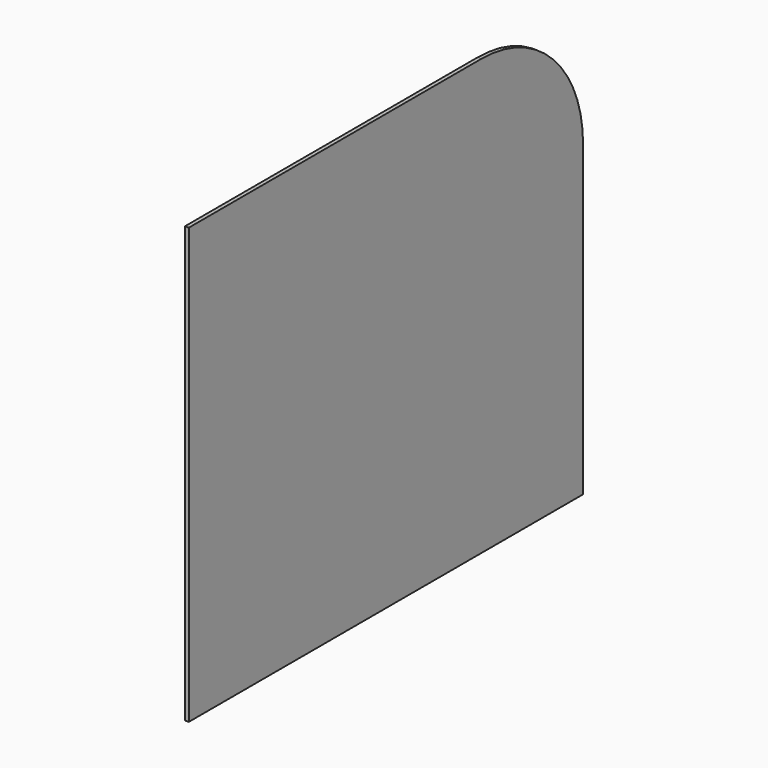
from build123d import *

# Parameters (mm, degrees)
F0_W     = 1524
F0_H     = 2152.65
F1_DEPTH = 19.05
F2_W     = 914.4
F2_H     = 2152.65
F3_DEPTH = 19.05
F5_DEPTH = 25.4


with BuildPart() as f1:
    # F0 (on Right) → F1 (new body)
    with BuildSketch(Plane.YZ):
        with Locations((-762, 1076.325)):
            Rectangle(F0_W, F0_H)
    extrude(amount=F1_DEPTH)

    # F2 (on Right) → F3 (join)
    with BuildSketch(Plane.YZ):
        with Locations((-1981.2, 1076.325)):
            Rectangle(F2_W, F2_H)
    extrude(amount=F3_DEPTH)

    # F4 (on face) → F5 (cut)
    with BuildSketch(Plane.YZ.offset(19.05)):
        with BuildLine():
            ThreePointArc((-628.65, 2152.65), (-184.127322, 1968.522678), (0, 1524))
            Line((0, 1524), (0, 2152.65))
            Line((0, 2152.65), (-628.65, 2152.65))
        make_face()
    extrude(amount=-F5_DEPTH, mode=Mode.SUBTRACT)


solid = f1.part
